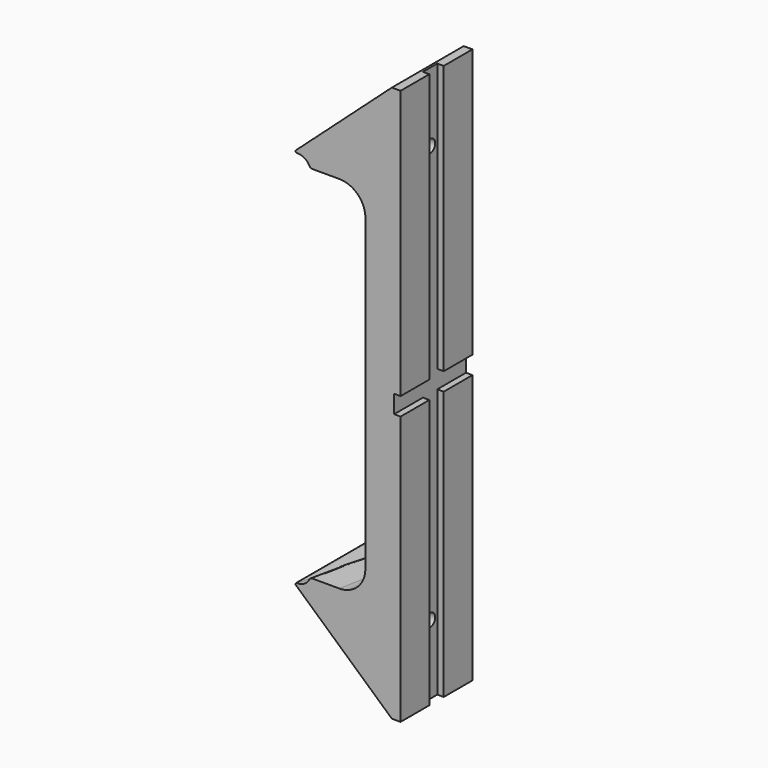
from build123d import *

# Parameters (mm, degrees)
F4_DEPTH  = 294.8
F6_DEPTH  = 70
F8_DEPTH  = 5
F9_R      = 5
F10_DEPTH = 30
F11_R     = 1


with BuildPart() as f2:
    # F2: sweep along a path in F1
    with BuildLine(Plane.XY) as f2_path:
        ThreePointArc((-415.6921938165, 240), (-463.6443966188, 124.2331416492), (-480, 0))
    # F0 (on Front) → F2 (sweep)
    with BuildSketch(Plane.XZ):
        with BuildLine():
            Line((-480, 120.4), (-480, 0))
            Line((-480, 0), (-480, -120.4))
            ThreePointArc((-480, -120.4), (-485.8578643763, -134.5421356237), (-500, -140.4))
            Line((-500, -140.4), (-520.7750278397, -140.4))
            ThreePointArc((-520.7750278397, -140.4), (-522.0979034952, -140.7786796564), (-523.0200222717, -141.8))
            ThreePointArc((-523.0200222717, -141.8), (-526.7084973779, -145.8852813742), (-532, -147.4))
            Line((-532, -147.4), (-450.85, -147.4))
            Line((-450.85, -147.4), (-450.85, 0))
            Line((-450.85, 0), (-450.85, 147.4))
            Line((-450.85, 147.4), (-532, 147.4))
            ThreePointArc((-532, 147.4), (-526.7084973779, 145.8852813742), (-523.0200222717, 141.8))
            ThreePointArc((-523.0200222717, 141.8), (-522.0979034952, 140.7786796564), (-520.7750278397, 140.4))
            Line((-520.7750278397, 140.4), (-500, 140.4))
            ThreePointArc((-500, 140.4), (-485.8578643763, 134.5421356237), (-480, 120.4))
        make_face()
    sweep(path=f2_path.line)

    # F3 (on face) → F4 (cut, through all)
    with BuildSketch(Plane.XY.offset(147.4)):
        with BuildLine():
            Line((-445, 85), (-525.1656881404, 85))
            ThreePointArc((-525.1656881404, 85), (-530.2886695427, 42.6371546266), (-532, 0))
            Line((-532, 0), (-450.85, 0))
            ThreePointArc((-450.85, 0), (-435.4876587824, 116.6885664845), (-390.4475532962, 225.425))
            Line((-390.4475532962, 225.425), (-460.7255148133, 266))
            ThreePointArc((-460.7255148133, 266), (-487.9888178112, 211.8747594482), (-508.9194435272, 155))
            Line((-508.9194435272, 155), (-445, 155))
            Line((-445, 155), (-445, 85))
        make_face()
    extrude(amount=-F4_DEPTH, mode=Mode.SUBTRACT)

    # F5 (on face) → F6 (join)
    with BuildSketch(Plane.XZ.offset(-85)):
        Polygon((-451.8080547159, 216.37), (-528.4069998637, 147.4), (-445, 147.4), (-445, 216.37), align=None)
        Polygon((-528.4069998637, -147.4), (-451.8080547159, -216.37), (-445, -216.37), (-445, -147.4), align=None)
    extrude(amount=-F6_DEPTH)

    # F7 (on face) → F8 (cut)
    with BuildSketch(Plane.YZ.offset(-445)):
        Polygon((127, 216.37), (113, 216.37), (113, 7), (85, 7), (85, -7), (113, -7), (113, -216.37), (127, -216.37), (127, -7), (155, -7), (155, 7), (127, 7), align=None)
    extrude(amount=-F8_DEPTH, mode=Mode.SUBTRACT)

    # F9 (on face) → F10 (cut)
    with BuildSketch(Plane.YZ.offset(-450)):
        with Locations((120, 162.5)):
            Circle(F9_R)
        with Locations((120, -162.5)):
            Circle(F9_R)
    extrude(amount=-F10_DEPTH, mode=Mode.SUBTRACT)

    # F11
    f11_edges = [f2.edges().sort_by_distance(p)[0] for p in [
        (-528.407, 120, 147.4),
        (-528.407, 120, -147.4),
    ]]
    fillet(f11_edges, radius=F11_R)


solid = f2.part
